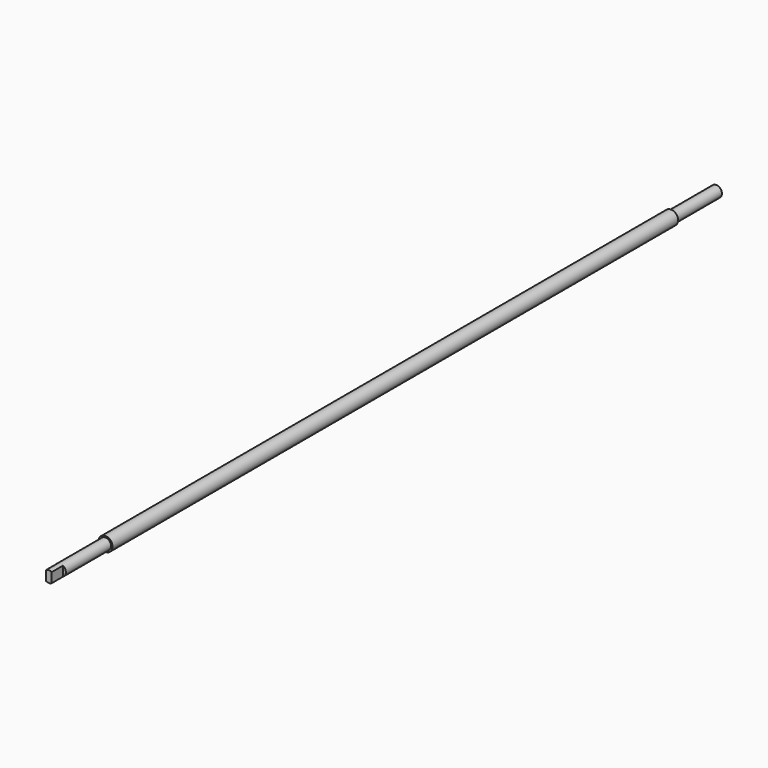
from build123d import *

# Parameters (mm, degrees)
F0_R     = 5
F1_DEPTH = 295
F2_R     = 9
F2_R_2   = 4
F3_DEPTH = 50
F4_R     = 5
F4_R_2   = 4
F5_DEPTH = 40
F7_DEPTH = 10


with BuildPart() as f1:
    # F0 (on Front) → F1 (new body, symmetric)
    with BuildSketch(Plane.XZ):
        Circle(F0_R)
    extrude(amount=F1_DEPTH, both=True)

    # F2 (on face) → F3 (cut)
    with BuildSketch(Plane.XZ.offset(295)):
        Circle(F2_R)
        Circle(F2_R_2, mode=Mode.SUBTRACT)
    extrude(amount=-F3_DEPTH, mode=Mode.SUBTRACT)

    # F4 (on face) → F5 (cut)
    with BuildSketch(Plane(origin=(0, 295, 0), x_dir=(-1, 0, 0), z_dir=(0, 1, 0))):
        Circle(F4_R)
        Circle(F4_R_2, mode=Mode.SUBTRACT)
    extrude(amount=-F5_DEPTH, mode=Mode.SUBTRACT)

    # F6 (on face) → F7 (cut)
    with BuildSketch(Plane.XZ.offset(295)):
        Polygon((2, 9.214783), (2, -9.214783), (-2, -9.214783), (-2, 9.214783), (-11.609545, 9.214783), (-11.609545, -12.255539), (8.235434, -15.570633), (8.235434, 9.214783), align=None)
    extrude(amount=-F7_DEPTH, mode=Mode.SUBTRACT)


solid = f1.part
